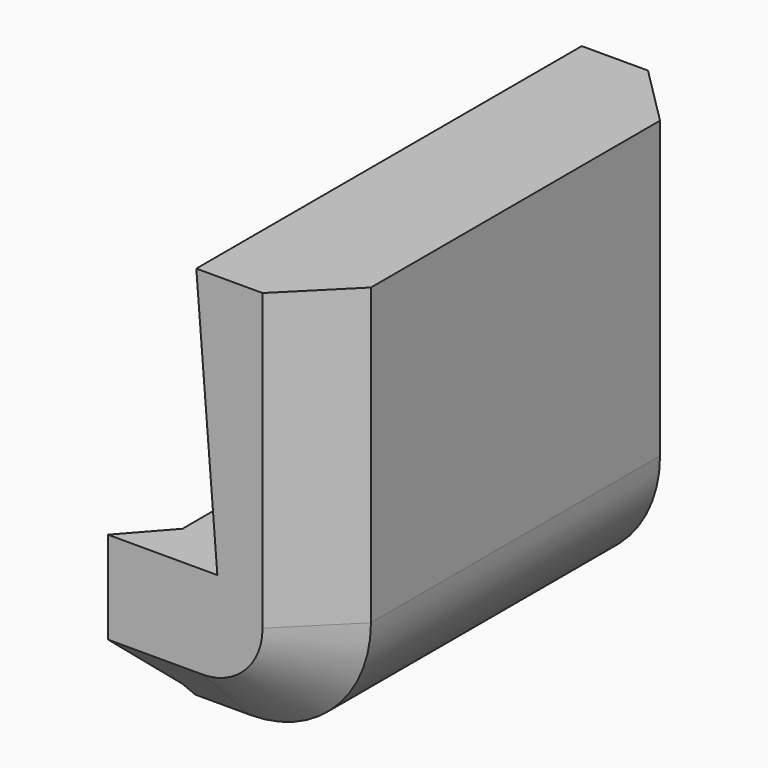
from build123d import *

# Parameters (mm, degrees)
SKETCH_W        = 10.7
SKETCH_H        = 24
PAD_DEPTH       = 20.7
POCKET_DEPTH    = 24.001
FILLET_R        = 6
POCKET001_DEPTH = 74.503317
SKETCH003_R     = 1.6
POCKET002_DEPTH = 4
CHAMFER_SIZE    = 3
CHAMFER001_SIZE = 3


with BuildPart() as part:
    # Sketch → Pad (new body)
    with BuildSketch(Plane.XY):
        Rectangle(SKETCH_W, SKETCH_H)
    extrude(amount=PAD_DEPTH)

    # Sketch001 (on Face3 of Pad) → Pocket (cut, through all)
    with BuildSketch(Plane.XZ.offset(12)):
        Polygon((-0.95, 20.7), (0.1, 7.6), (-5.35, 7.6), (-5.35, 20.7), align=None)
    extrude(amount=-POCKET_DEPTH, mode=Mode.SUBTRACT)

    # Fillet
    fillet_edges = [part.edges().sort_by_distance(p)[0] for p in [
        (5.35, 0, 0),
    ]]
    fillet(fillet_edges, radius=FILLET_R)

    # Sketch002 (on Face6 of Fillet) → Pocket001 (cut, through all)
    with BuildSketch(Plane.XY.offset(7.6)):
        Polygon((-5.35, 12), (-3.4, 9.8), (-3.4, 4.5), (-5.35, 3.73), align=None)
    pocket001 = extrude(amount=-POCKET001_DEPTH, mode=Mode.SUBTRACT)

    # Mirrored: Pocket001 across Sketch002 H_Axis
    add(pocket001.mirror(Plane(origin=(0, 0, 7.6), x_dir=(0, 0, 1), z_dir=(0, 1, 0))), mode=Mode.SUBTRACT)

    # Sketch003 (on Face9 of Mirrored) → Pocket002 (cut)
    with BuildSketch(Plane(origin=(-3.4, 0, 0), x_dir=(0, -1, 0), z_dir=(-1, 0, 0))):
        with Locations((-7, 3.8)):
            Circle(SKETCH003_R)
    pocket002 = extrude(amount=-POCKET002_DEPTH, mode=Mode.SUBTRACT)

    # Mirrored001: Pocket002 across Sketch003 V_Axis
    add(pocket002.mirror(Plane(origin=(-3.4, 0, 0), x_dir=(-1, 0, 0), z_dir=(0, -1, 0))), mode=Mode.SUBTRACT)

    # Chamfer
    chamfer_edges = [part.edges().sort_by_distance(p)[0] for p in [
        (5.35, -12, 13.35),
    ]]
    chamfer(chamfer_edges, length=CHAMFER_SIZE)

    # Chamfer001
    chamfer001_edges = [part.edges().sort_by_distance(p)[0] for p in [
        (5.35, 12, 13.35),
    ]]
    chamfer(chamfer001_edges, length=CHAMFER001_SIZE)


solid = part.part
